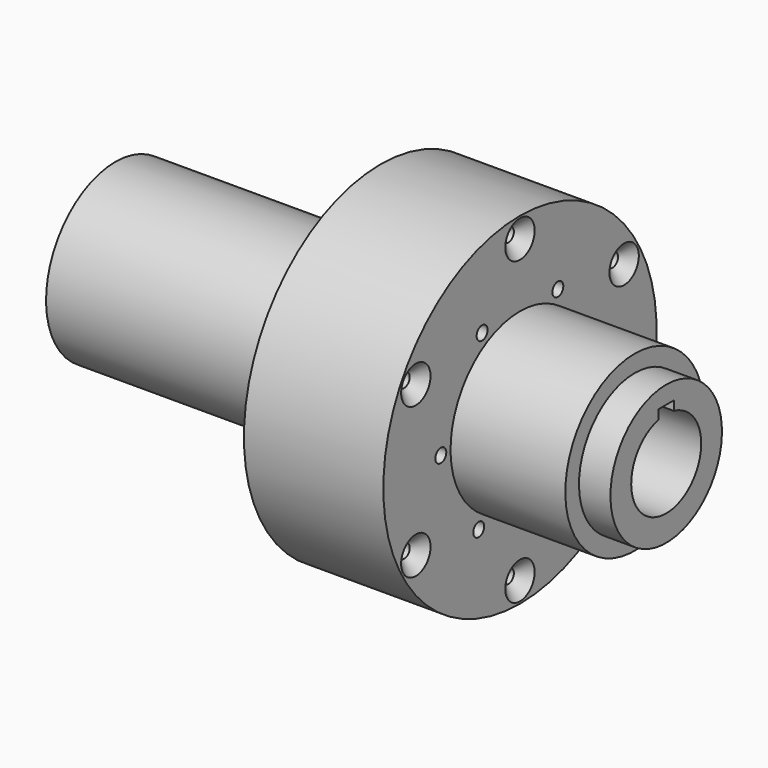
from build123d import *

# Parameters (mm, degrees)
F2_DEPTH       = 25
F4_D           = 5
F4_CSINK_D     = 13.44
F4_CSINK_ANGLE = 90
F6_D           = 5
F8_DEPTH       = 201.5


with BuildPart() as f1:
    # F0 (on Front) → F1 (revolve)
    with BuildSketch(Plane.XZ):
        Polygon((-272.2911421515, 31.75), (-272.2911421515, 16), (-70.7911421515, 16), (-70.7911421515, 25.5), (-82.2911421515, 25.5), (-82.2911421515, 31.75), (-149.2911421515, 31.75), (-149.2911421515, 62.5), (-175.2911421515, 62.5), (-175.2911421515, 31.75), align=None)
    revolve(axis=Axis((18.6580618019, 0, 0), (1, 0, 0)))

    # F2 (add): a face of the model
    f2_faces = [f1.faces().sort_by_distance(p)[0] for p in [
        (-149.2911421515, 0, -33.517766953),
    ]]
    extrude(f2_faces, amount=F2_DEPTH)

    # F4 (through all)
    with Locations(Plane.YZ.offset(-124.2911421515)):
        with Locations((-47.6313972081, 27.5), (47.6313972081, 27.5), (0, 55), (0, -55), (47.6313972081, -27.5), (-47.6313972081, -27.5)):
            CounterSinkHole(F4_D / 2, F4_CSINK_D / 2, counter_sink_angle=F4_CSINK_ANGLE)

    # F6 (through all)
    with Locations(Plane.YZ.offset(-124.2911421515)):
        with Locations((-36.2002509452, 0), (-17.3218229571, 31.7869881861), (17.3218229571, 31.7869881861), (36.2002509452, 0), (18.8674278004, -30.8946328137), (-18.8674278004, -30.8946328137)):
            Hole(F6_D / 2)

    # F7 (on face) → F8 (cut, through all)
    with BuildSketch(Plane.YZ.offset(-70.7911421515)):
        with BuildLine():
            ThreePointArc((-3.5, 15.612494996), (0, 16), (3.5, 15.612494996))
            Line((3.5, 15.612494996), (3.5, 19))
            Line((3.5, 19), (-3.5, 19))
            Line((-3.5, 19), (-3.5, 15.612494996))
        make_face()
    extrude(amount=-F8_DEPTH, mode=Mode.SUBTRACT)


solid = f1.part
